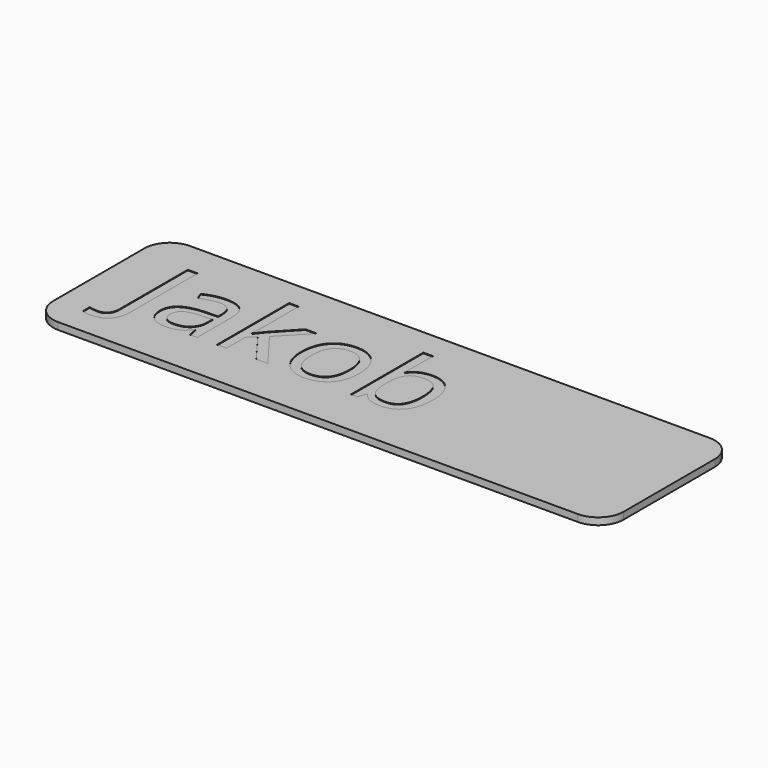
from build123d import *

# Parameters (mm, degrees)
F1_DEPTH = 1
F3_DEPTH = 0.1


with BuildPart() as f1:
    # F0 (on Top) → F1 (new body)
    with BuildSketch(Plane.XY):
        with BuildLine():
            ThreePointArc((45, 9), (43.8284271247, 11.8284271247), (41, 13))
            Line((41, 13), (-41, 13))
            ThreePointArc((-41, 13), (-43.8284271247, 11.8284271247), (-45, 9))
            Line((-45, 9), (-45, -9))
            ThreePointArc((-45, -9), (-43.8284271247, -11.8284271247), (-41, -13))
            Line((-41, -13), (41, -13))
            ThreePointArc((41, -13), (43.8284271247, -11.8284271247), (45, -9))
            Line((45, -9), (45, 9))
        make_face()
    extrude(amount=F1_DEPTH)

    # F2 (on face) → F3 (join)
    with BuildSketch(Plane.XY.offset(1)):
        with BuildLine():
            Line((45, -9), (45, 9))
            ThreePointArc((45, 9), (43.8284271247, 11.8284271247), (41, 13))
            Line((41, 13), (-41, 13))
            ThreePointArc((-41, 13), (-43.8284271247, 11.8284271247), (-45, 9))
            Line((-45, 9), (-45, -9))
            ThreePointArc((-45, -9), (-43.8284271247, -11.8284271247), (-41, -13))
            Line((-41, -13), (41, -13))
            ThreePointArc((41, -13), (43.8284271247, -11.8284271247), (45, -9))
        make_face()
        with BuildLine():
            Line((-40, 10), (40, 10))
            ThreePointArc((40, 10), (41.4142135624, 9.4142135624), (42, 8))
            Line((42, 8), (42, -8))
            ThreePointArc((42, -8), (41.4142135624, -9.4142135624), (40, -10))
            Line((40, -10), (-40, -10))
            ThreePointArc((-40, -10), (-41.4142135624, -9.4142135624), (-42, -8))
            Line((-42, -8), (-42, 8))
            ThreePointArc((-42, 8), (-41.4142135624, 9.4142135624), (-40, 10))
        make_face(mode=Mode.SUBTRACT)
        with BuildLine():
            ThreePointArc((42, 8), (41.4142135624, 9.4142135624), (40, 10))
            Line((40, 10), (-40, 10))
            ThreePointArc((-40, 10), (-41.4142135624, 9.4142135624), (-42, 8))
            Line((-42, 8), (-42, -8))
            ThreePointArc((-42, -8), (-41.4142135624, -9.4142135624), (-40, -10))
            Line((-40, -10), (40, -10))
            ThreePointArc((40, -10), (41.4142135624, -9.4142135624), (42, -8))
            Line((42, -8), (42, 8))
        make_face()
        with BuildLine():
            add(Edge.make_bspline(
                [(-36.5830078125, -8.0678710938), (-37.4619140625, -9.0244140625), (-39.111328125, -9.0244140625)],
                knots=[0, 0, 0, 1, 1, 1], degree=2))
            add(Edge.make_bspline(
                [(-39.111328125, -9.0244140625), (-39.9697265625, -9.0244140625), (-40.46484375, -8.7783203125)],
                knots=[0, 0, 0, 1, 1, 1], degree=2))
            Line((-40.46484375, -8.7783203125), (-40.46484375, -7.451171875))
            add(Edge.make_bspline(
                [(-40.46484375, -7.451171875), (-39.814453125, -7.6328125), (-39.111328125, -7.6328125)],
                knots=[0, 0, 0, 1, 1, 1], degree=2))
            add(Edge.make_bspline(
                [(-39.111328125, -7.6328125), (-38.203125, -7.6328125), (-37.7314453125, -7.0834960938)],
                knots=[0, 0, 0, 1, 1, 1], degree=2))
            add(Edge.make_bspline(
                [(-37.7314453125, -7.0834960938), (-37.259765625, -6.5341796875), (-37.259765625, -5.5)],
                knots=[0, 0, 0, 1, 1, 1], degree=2))
            Line((-37.259765625, -5.5), (-37.259765625, 7.8857421875))
            Line((-37.259765625, 7.8857421875), (-35.7041015625, 7.8857421875))
            Line((-35.7041015625, 7.8857421875), (-35.7041015625, -5.37109375))
            add(Edge.make_bspline(
                [(-35.7041015625, -5.37109375), (-35.7041015625, -7.111328125), (-36.5830078125, -8.0678710938)],
                knots=[0, 0, 0, 1, 1, 1], degree=2))
        make_face(mode=Mode.SUBTRACT)
        with BuildLine():
            Line((-25.083984375, -5.5), (-26.2119140625, -5.5))
            Line((-26.2119140625, -5.5), (-26.513671875, -4.0703125))
            Line((-26.513671875, -4.0703125), (-26.5869140625, -4.0703125))
            add(Edge.make_bspline(
                [(-26.5869140625, -4.0703125), (-27.3369140625, -5.013671875), (-28.0825195312, -5.3491210938)],
                knots=[0, 0, 0, 1, 1, 1], degree=2))
            add(Edge.make_bspline(
                [(-28.0825195312, -5.3491210938), (-28.828125, -5.6845703125), (-29.947265625, -5.6845703125)],
                knots=[0, 0, 0, 1, 1, 1], degree=2))
            add(Edge.make_bspline(
                [(-29.947265625, -5.6845703125), (-31.4384765625, -5.6845703125), (-32.28515625, -4.9140625)],
                knots=[0, 0, 0, 1, 1, 1], degree=2))
            add(Edge.make_bspline(
                [(-32.28515625, -4.9140625), (-33.1318359375, -4.1435546875), (-33.1318359375, -2.7255859375)],
                knots=[0, 0, 0, 1, 1, 1], degree=2))
            add(Edge.make_bspline(
                [(-33.1318359375, -2.7255859375), (-33.1318359375, 0.3125), (-28.271484375, 0.458984375)],
                knots=[0, 0, 0, 1, 1, 1], degree=2))
            Line((-28.271484375, 0.458984375), (-26.5693359375, 0.5146484375))
            Line((-26.5693359375, 0.5146484375), (-26.5693359375, 1.138671875))
            add(Edge.make_bspline(
                [(-26.5693359375, 1.138671875), (-26.5693359375, 2.3193359375), (-27.076171875, 2.8818359375)],
                knots=[0, 0, 0, 1, 1, 1], degree=2))
            add(Edge.make_bspline(
                [(-27.076171875, 2.8818359375), (-27.5830078125, 3.4443359375), (-28.7021484375, 3.4443359375)],
                knots=[0, 0, 0, 1, 1, 1], degree=2))
            add(Edge.make_bspline(
                [(-28.7021484375, 3.4443359375), (-29.9560546875, 3.4443359375), (-31.5380859375, 2.6767578125)],
                knots=[0, 0, 0, 1, 1, 1], degree=2))
            Line((-31.5380859375, 2.6767578125), (-32.0068359375, 3.83984375))
            add(Edge.make_bspline(
                [(-32.0068359375, 3.83984375), (-31.265625, 4.2412109375), (-30.3823242188, 4.4697265625)],
                knots=[0, 0, 0, 1, 1, 1], degree=2))
            add(Edge.make_bspline(
                [(-30.3823242188, 4.4697265625), (-29.4990234375, 4.6982421875), (-28.6083984375, 4.6982421875)],
                knots=[0, 0, 0, 1, 1, 1], degree=2))
            add(Edge.make_bspline(
                [(-28.6083984375, 4.6982421875), (-26.8154296875, 4.6982421875), (-25.9497070312, 3.9028320312)],
                knots=[0, 0, 0, 1, 1, 1], degree=2))
            add(Edge.make_bspline(
                [(-25.9497070312, 3.9028320312), (-25.083984375, 3.107421875), (-25.083984375, 1.349609375)],
                knots=[0, 0, 0, 1, 1, 1], degree=2))
            Line((-25.083984375, 1.349609375), (-25.083984375, -5.5))
        make_face(mode=Mode.SUBTRACT)
        with BuildLine():
            add(Edge.make_bspline(
                [(-4.6948242187, 3.3168945312), (-3.4541015625, 1.9150390625), (-3.4541015625, -0.47265625)],
                knots=[0, 0, 0, 1, 1, 1], degree=2))
            add(Edge.make_bspline(
                [(-3.4541015625, -0.47265625), (-3.4541015625, -2.927734375), (-4.6889648437, -4.3061523438)],
                knots=[0, 0, 0, 1, 1, 1], degree=2))
            add(Edge.make_bspline(
                [(-4.6889648437, -4.3061523438), (-5.923828125, -5.6845703125), (-8.103515625, -5.6845703125)],
                knots=[0, 0, 0, 1, 1, 1], degree=2))
            add(Edge.make_bspline(
                [(-8.103515625, -5.6845703125), (-9.451171875, -5.6845703125), (-10.494140625, -5.0517578125)],
                knots=[0, 0, 0, 1, 1, 1], degree=2))
            add(Edge.make_bspline(
                [(-10.494140625, -5.0517578125), (-11.537109375, -4.4189453125), (-12.10546875, -3.23828125)],
                knots=[0, 0, 0, 1, 1, 1], degree=2))
            add(Edge.make_bspline(
                [(-12.10546875, -3.23828125), (-12.673828125, -2.0576171875), (-12.673828125, -0.47265625)],
                knots=[0, 0, 0, 1, 1, 1], degree=2))
            add(Edge.make_bspline(
                [(-12.673828125, -0.47265625), (-12.673828125, 1.9794921875), (-11.4462890625, 3.3491210937)],
                knots=[0, 0, 0, 1, 1, 1], degree=2))
            add(Edge.make_bspline(
                [(-11.4462890625, 3.3491210937), (-10.21875, 4.71875), (-8.0390625, 4.71875)],
                knots=[0, 0, 0, 1, 1, 1], degree=2))
            add(Edge.make_bspline(
                [(-8.0390625, 4.71875), (-5.935546875, 4.71875), (-4.6948242187, 3.3168945312)],
                knots=[0, 0, 0, 1, 1, 1], degree=2))
        make_face(mode=Mode.SUBTRACT)
        with BuildLine():
            Line((-20.525390625, -0.3642578125), (-20.4521484375, -0.3642578125))
            add(Edge.make_bspline(
                [(-20.4521484375, -0.3642578125), (-20.0595703125, 0.1953125), (-19.25390625, 1.1005859375)],
                knots=[0, 0, 0, 1, 1, 1], degree=2))
            Line((-19.25390625, 1.1005859375), (-16.013671875, 4.5341796875))
            Line((-16.013671875, 4.5341796875), (-14.208984375, 4.5341796875))
            Line((-14.208984375, 4.5341796875), (-18.275390625, 0.259765625))
            Line((-18.275390625, 0.259765625), (-13.9248046875, -5.5))
            Line((-13.9248046875, -5.5), (-15.7646484375, -5.5))
            Line((-15.7646484375, -5.5), (-19.3095703125, -0.7568359375))
            Line((-19.3095703125, -0.7568359375), (-20.4521484375, -1.7470703125))
            Line((-20.4521484375, -1.7470703125), (-20.4521484375, -5.5))
            Line((-20.4521484375, -5.5), (-21.955078125, -5.5))
            Line((-21.955078125, -5.5), (-21.955078125, 8.7470703125))
            Line((-21.955078125, 8.7470703125), (-20.4521484375, 8.7470703125))
            Line((-20.4521484375, 8.7470703125), (-20.4521484375, 1.19140625))
            add(Edge.make_bspline(
                [(-20.4521484375, 1.19140625), (-20.4521484375, 0.6904296875), (-20.525390625, -0.3642578125)],
                knots=[0, 0, 0, 1, 1, 1], degree=2))
        make_face(mode=Mode.SUBTRACT)
        with BuildLine():
            add(Edge.make_bspline(
                [(0.732421875, 3.1982421875), (1.79296875, 4.6982421875), (3.8818359375, 4.6982421875)],
                knots=[0, 0, 0, 1, 1, 1], degree=2))
            add(Edge.make_bspline(
                [(3.8818359375, 4.6982421875), (5.859375, 4.6982421875), (6.9536132813, 3.34765625)],
                knots=[0, 0, 0, 1, 1, 1], degree=2))
            add(Edge.make_bspline(
                [(6.9536132813, 3.34765625), (8.0478515625, 1.9970703125), (8.0478515625, -0.47265625)],
                knots=[0, 0, 0, 1, 1, 1], degree=2))
            add(Edge.make_bspline(
                [(8.0478515625, -0.47265625), (8.0478515625, -2.9453125), (6.9448242188, -4.3149414063)],
                knots=[0, 0, 0, 1, 1, 1], degree=2))
            add(Edge.make_bspline(
                [(6.9448242188, -4.3149414063), (5.841796875, -5.6845703125), (3.8818359375, -5.6845703125)],
                knots=[0, 0, 0, 1, 1, 1], degree=2))
            add(Edge.make_bspline(
                [(3.8818359375, -5.6845703125), (2.900390625, -5.6845703125), (2.0903320313, -5.3227539063)],
                knots=[0, 0, 0, 1, 1, 1], degree=2))
            add(Edge.make_bspline(
                [(2.0903320313, -5.3227539063), (1.2802734375, -4.9609375), (0.732421875, -4.2080078125)],
                knots=[0, 0, 0, 1, 1, 1], degree=2))
            Line((0.732421875, -4.2080078125), (0.62109375, -4.2080078125))
            Line((0.62109375, -4.2080078125), (0.3017578125, -5.5))
            Line((0.3017578125, -5.5), (-0.7880859375, -5.5))
            Line((-0.7880859375, -5.5), (-0.7880859375, 8.7470703125))
            Line((-0.7880859375, 8.7470703125), (0.732421875, 8.7470703125))
            Line((0.732421875, 8.7470703125), (0.732421875, 5.2841796875))
            add(Edge.make_bspline(
                [(0.732421875, 5.2841796875), (0.732421875, 4.12109375), (0.6591796875, 3.1982421875)],
                knots=[0, 0, 0, 1, 1, 1], degree=2))
            Line((0.6591796875, 3.1982421875), (0.732421875, 3.1982421875))
        make_face(mode=Mode.SUBTRACT)
        with BuildLine():
            add(Edge.make_bspline(
                [(-31.0400390625, -3.9985351563), (-30.5419921875, -4.427734375), (-29.6455078125, -4.427734375)],
                knots=[0, 0, 0, 1, 1, 1], degree=2))
            add(Edge.make_bspline(
                [(-29.6455078125, -4.427734375), (-28.224609375, -4.427734375), (-27.4145507812, -3.6499023438)],
                knots=[0, 0, 0, 1, 1, 1], degree=2))
            add(Edge.make_bspline(
                [(-27.4145507812, -3.6499023438), (-26.6044921875, -2.8720703125), (-26.6044921875, -1.4716796875)],
                knots=[0, 0, 0, 1, 1, 1], degree=2))
            Line((-26.6044921875, -1.4716796875), (-26.6044921875, -0.56640625))
            Line((-26.6044921875, -0.56640625), (-28.125, -0.6279296875))
            add(Edge.make_bspline(
                [(-28.125, -0.6279296875), (-29.9384765625, -0.6923828125), (-30.73828125, -1.1918945313)],
                knots=[0, 0, 0, 1, 1, 1], degree=2))
            add(Edge.make_bspline(
                [(-30.73828125, -1.1918945313), (-31.5380859375, -1.69140625), (-31.5380859375, -2.7431640625)],
                knots=[0, 0, 0, 1, 1, 1], degree=2))
            add(Edge.make_bspline(
                [(-31.5380859375, -2.7431640625), (-31.5380859375, -3.5693359375), (-31.0400390625, -3.9985351563)],
                knots=[0, 0, 0, 1, 1, 1], degree=2))
        make_face()
        with BuildLine():
            add(Edge.make_bspline(
                [(-10.3374023437, 2.4467773437), (-11.09765625, 1.466796875), (-11.09765625, -0.47265625)],
                knots=[0, 0, 0, 1, 1, 1], degree=2))
            add(Edge.make_bspline(
                [(-11.09765625, -0.47265625), (-11.09765625, -2.3974609375), (-10.3286132812, -3.4038085938)],
                knots=[0, 0, 0, 1, 1, 1], degree=2))
            add(Edge.make_bspline(
                [(-10.3286132812, -3.4038085938), (-9.5595703125, -4.41015625), (-8.068359375, -4.41015625)],
                knots=[0, 0, 0, 1, 1, 1], degree=2))
            add(Edge.make_bspline(
                [(-8.068359375, -4.41015625), (-6.57421875, -4.41015625), (-5.80078125, -3.408203125)],
                knots=[0, 0, 0, 1, 1, 1], degree=2))
            add(Edge.make_bspline(
                [(-5.80078125, -3.408203125), (-5.02734375, -2.40625), (-5.02734375, -0.47265625)],
                knots=[0, 0, 0, 1, 1, 1], degree=2))
            add(Edge.make_bspline(
                [(-5.02734375, -0.47265625), (-5.02734375, 1.4404296875), (-5.80078125, 2.43359375)],
                knots=[0, 0, 0, 1, 1, 1], degree=2))
            add(Edge.make_bspline(
                [(-5.80078125, 2.43359375), (-6.57421875, 3.4267578125), (-8.0859375, 3.4267578125)],
                knots=[0, 0, 0, 1, 1, 1], degree=2))
            add(Edge.make_bspline(
                [(-8.0859375, 3.4267578125), (-9.5771484375, 3.4267578125), (-10.3374023437, 2.4467773437)],
                knots=[0, 0, 0, 1, 1, 1], degree=2))
        make_face()
        with BuildLine():
            add(Edge.make_bspline(
                [(5.7846679688, 2.4658203125), (5.09765625, 3.4267578125), (3.662109375, 3.4267578125)],
                knots=[0, 0, 0, 1, 1, 1], degree=2))
            add(Edge.make_bspline(
                [(3.662109375, 3.4267578125), (2.1064453125, 3.4267578125), (1.4194335938, 2.5346679687)],
                knots=[0, 0, 0, 1, 1, 1], degree=2))
            add(Edge.make_bspline(
                [(1.4194335938, 2.5346679687), (0.732421875, 1.642578125), (0.732421875, -0.47265625)],
                knots=[0, 0, 0, 1, 1, 1], degree=2))
            add(Edge.make_bspline(
                [(0.732421875, -0.47265625), (0.732421875, -2.587890625), (1.4370117188, -3.4990234375)],
                knots=[0, 0, 0, 1, 1, 1], degree=2))
            add(Edge.make_bspline(
                [(1.4370117188, -3.4990234375), (2.1416015625, -4.41015625), (3.697265625, -4.41015625)],
                knots=[0, 0, 0, 1, 1, 1], degree=2))
            add(Edge.make_bspline(
                [(3.697265625, -4.41015625), (5.09765625, -4.41015625), (5.7846679688, -3.3891601563)],
                knots=[0, 0, 0, 1, 1, 1], degree=2))
            add(Edge.make_bspline(
                [(5.7846679688, -3.3891601563), (6.4716796875, -2.3681640625), (6.4716796875, -0.455078125)],
                knots=[0, 0, 0, 1, 1, 1], degree=2))
            add(Edge.make_bspline(
                [(6.4716796875, -0.455078125), (6.4716796875, 1.5048828125), (5.7846679688, 2.4658203125)],
                knots=[0, 0, 0, 1, 1, 1], degree=2))
        make_face()
    extrude(amount=F3_DEPTH)


solid = f1.part
